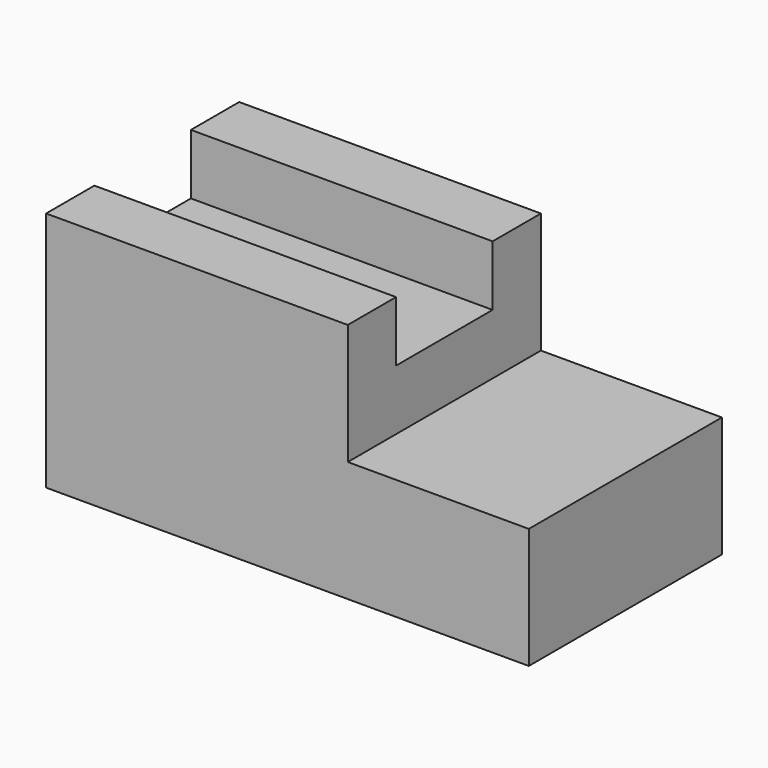
from build123d import *

# Parameters (mm, degrees)
F0_W     = 203.2
F0_H     = 101.6
F1_DEPTH = 50.8
F2_W     = 127
F2_H     = 50.8
F3_DEPTH = 101.6
F4_W     = 50.8
F4_H     = 25.4
F5_DEPTH = 127.001


with BuildPart() as f1:
    # F0 (on Top) → F1 (new body)
    with BuildSketch(Plane.XY):
        with Locations((14.7838530302, -4.4053898573)):
            Rectangle(F0_W, F0_H)
    extrude(amount=F1_DEPTH)

    # F2 (on face) → F3 (join)
    with BuildSketch(Plane.XZ.offset(55.2053898573)):
        with Locations((-23.3161469698, 76.2)):
            Rectangle(F2_W, F2_H)
    extrude(amount=-F3_DEPTH)

    # F4 (on face) → F5 (cut, through all)
    with BuildSketch(Plane.YZ.offset(40.1838530302)):
        with Locations((-4.4053898573, 88.9)):
            Rectangle(F4_W, F4_H)
    extrude(amount=-F5_DEPTH, mode=Mode.SUBTRACT)


solid = f1.part
